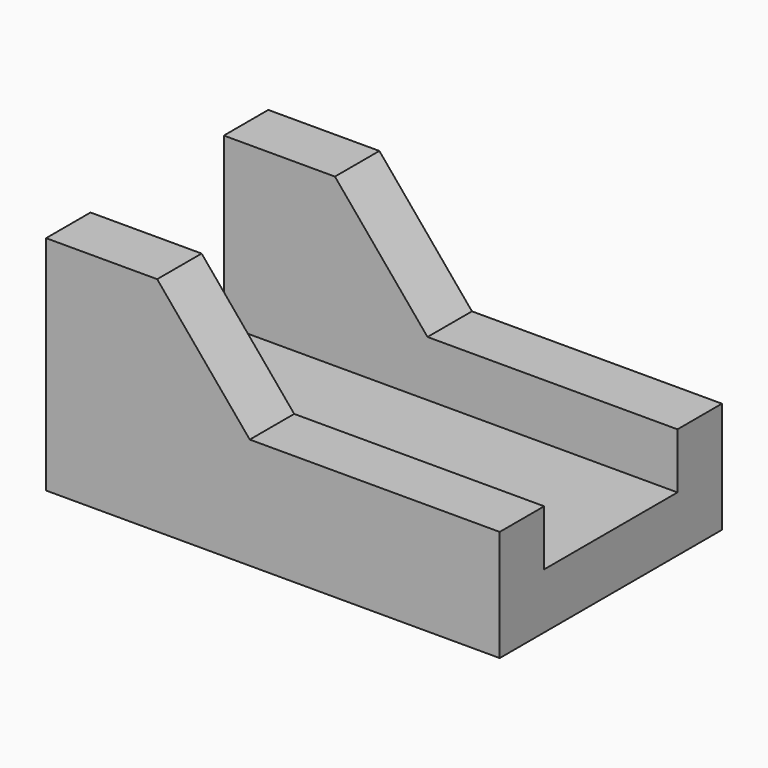
from build123d import *

# Parameters (mm, degrees)
F0_W     = 77.7875
F0_H     = 47.625
F1_DEPTH = 9.525
F3_DEPTH = 9.525


with BuildPart() as f1:
    # F0 (on Top) → F1 (new body)
    with BuildSketch(Plane.XY):
        Rectangle(F0_W, F0_H)
    extrude(amount=F1_DEPTH)

    # F2 (on face) → F3 (join)
    with BuildSketch(Plane.XZ.offset(23.8125)):
        Polygon((-38.89375, 38.1), (-38.89375, 9.525), (38.89375, 9.525), (38.89375, 19.05), (-3.96875, 19.05), (-19.84375, 38.1), align=None)
    extrude(amount=-F3_DEPTH)

    # F4: F1 across plane


with BuildPart() as f1_1:
    add(f1.part)
    add(f1.part.mirror(Plane.XZ))


solid = f1_1.part
